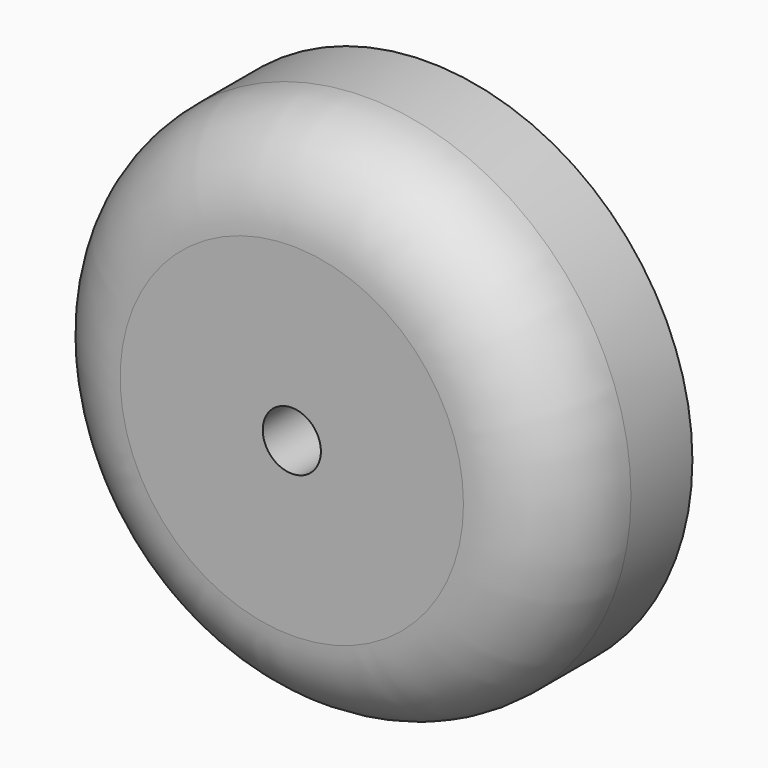
from build123d import *

# Parameters (mm, degrees)
F0_R     = 7.2252124777
F1_DEPTH = 4.6355
F3_D     = 1.5875
F3_DEPTH = 4.064
F3_TIP   = 0.4769331164
F4_R     = 2.54


with BuildPart() as f1:
    # F0 (on Front) → F1 (new body)
    with BuildSketch(Plane.XZ):
        Circle(F0_R)
    extrude(amount=F1_DEPTH)

    # F3
    with Locations(Plane.XZ.offset(4.6355)):
        with Locations((0, 0)):
            Hole(F3_D / 2, depth=F3_DEPTH)
            with Locations((0, 0, -(F3_DEPTH + F3_TIP / 2))):  # 118° drill point
                Cone(0, F3_D / 2, F3_TIP, mode=Mode.SUBTRACT)

    # F4
    f4_edges = [f1.edges().sort_by_distance(p)[0] for p in [
        (-7.225212, -4.6355, 0),
    ]]
    fillet(f4_edges, radius=F4_R)


solid = f1.part
